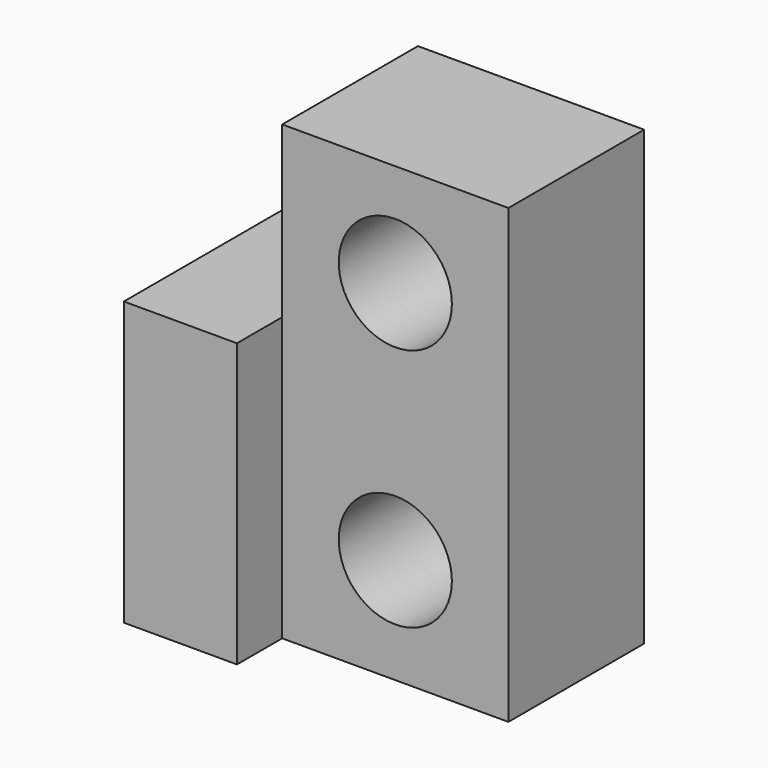
from build123d import *

# Parameters (mm, degrees)
F0_W     = 20
F0_H     = 40
F1_DEPTH = 15
F2_W     = 10
F2_H     = 25.000002
F3_DEPTH = 20
F4_R     = 5
F5_DEPTH = 15


with BuildPart() as f1:
    # F0 (on Front) → F1 (new body)
    with BuildSketch(Plane.XZ):
        Rectangle(F0_W, F0_H)
    extrude(amount=F1_DEPTH)

    # F2 (on Front) → F3 (join)
    with BuildSketch(Plane.XZ):
        with Locations((-15, -7.499999)):
            Rectangle(F2_W, F2_H)
    extrude(amount=F3_DEPTH)

    # F4 (on Front) → F5 (cut)
    with BuildSketch(Plane.XZ):
        with Locations((0, 10.902443)):
            Circle(F4_R)
        with Locations((0, -10.669231)):
            Circle(F4_R)
    extrude(amount=F5_DEPTH, mode=Mode.SUBTRACT)


solid = f1.part
